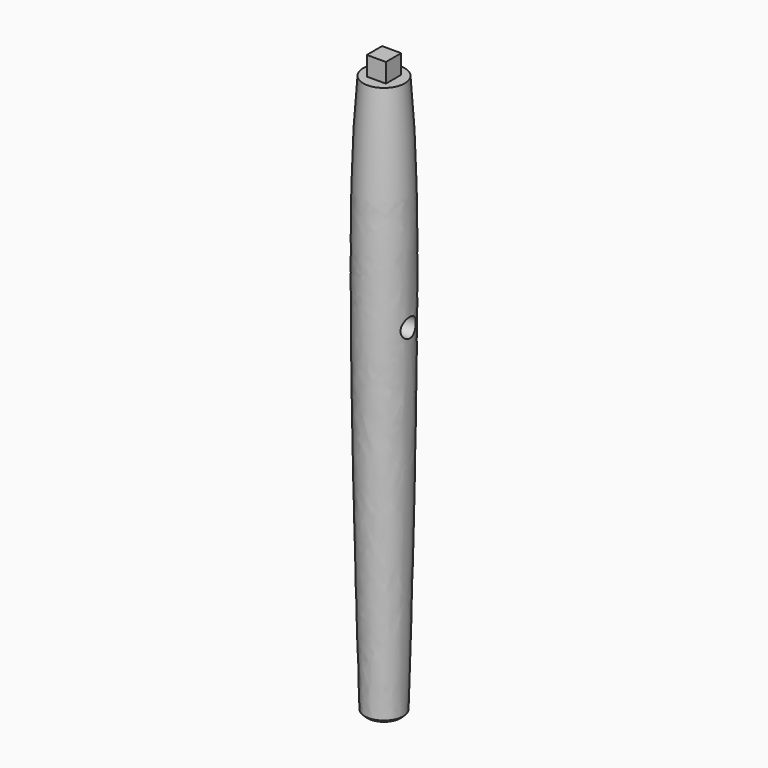
from build123d import *

# Parameters (mm, degrees)
F2_W     = 50.8
F2_H     = 50.8
F2_R     = 19.05
F2_W_2   = 19.05
F2_H_2   = 19.05
F3_DEPTH = 19.05
F4_SIZE  = 2.54
F5_R     = 9.525
F6_DEPTH = 26.0044493244
F7_R     = 9.525
F8_DEPTH = 26.0044493244


with BuildPart() as f1:
    # F0 (on Front) → F1 (revolve)
    with BuildSketch(Plane.XZ):
        with BuildLine():
            Line((19.05, 288.925), (0, 288.925))
            Line((0, 288.925), (0, 174.625))
            Line((0, 174.625), (0, -288.925))
            Line((0, -288.925), (19.05, -288.925))
            add(Edge.make_bspline(
                [(19.05, 288.925), (21.5231611834, 259.0225091694), (29.8445561443, 170.9337666521), (23.2116888835, -152.3025010334), (19.05, -288.925)],
                knots=[0, 0, 0, 0, 0.3319629358, 1, 1, 1, 1], degree=3))
        make_face()
    revolve(axis=Axis((0, 0, 0), (0, 0, -1)))

    # F2 (on face) → F3 (cut)
    with BuildSketch(Plane.XY.offset(288.925)):
        Rectangle(F2_W, F2_H)
        Circle(F2_R, mode=Mode.SUBTRACT)
        Circle(F2_R)
        Rectangle(F2_W_2, F2_H_2, mode=Mode.SUBTRACT)
    extrude(amount=-F3_DEPTH, mode=Mode.SUBTRACT)

    # F4
    f4_edges = [f1.edges().sort_by_distance(p)[0] for p in [
        (-19.05, 0, -288.925),
    ]]
    chamfer(f4_edges, length=F4_SIZE)

    # F5 (on Front) → F6 (cut, through all)
    with BuildSketch(Plane.XZ):
        with Locations((0, 133.35)):
            Circle(F5_R)
    extrude(amount=-F6_DEPTH, mode=Mode.SUBTRACT)

    # F7 (on Right) → F8 (cut, through all)
    with BuildSketch(Plane.YZ):
        with Locations((0, 57.15)):
            Circle(F7_R)
    extrude(amount=F8_DEPTH, mode=Mode.SUBTRACT)


solid = f1.part
